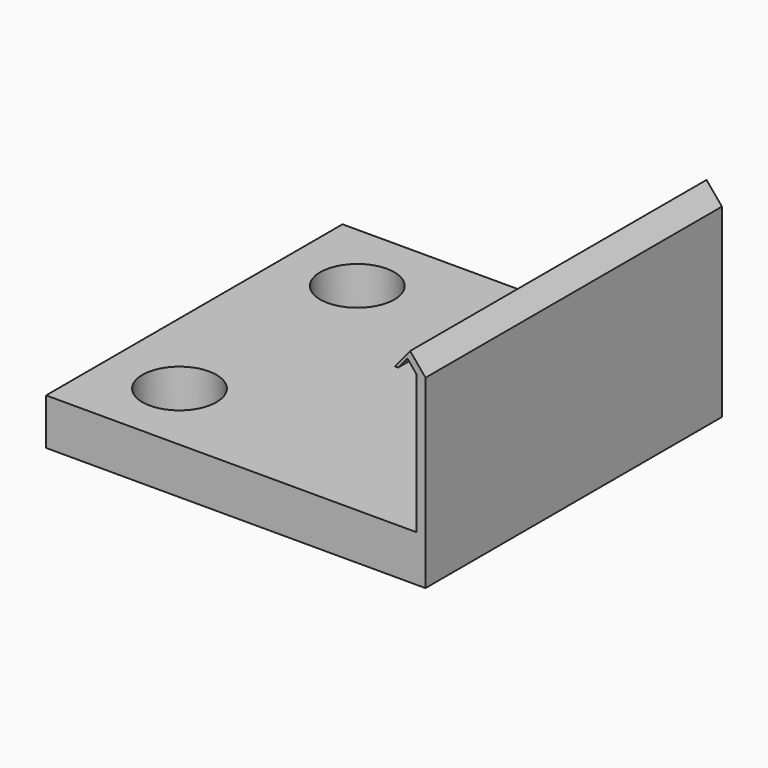
from build123d import *

# Parameters (mm, degrees)
F0_W     = 25.4
F0_H     = 3.175
F1_DEPTH = 12.7
F2_R     = 2.54
F3_DEPTH = 13.971


with BuildPart() as f1:
    # F0 (on Front) → F1 (new body, symmetric)
    with BuildSketch(Plane.XZ):
        Rectangle(F0_W, F0_H)
        Polygon((12.7, 1.5875), (12.7, -1.5875), (13.310071, -1.5875), (13.310071, 11.1125), (12.7, 11.1125), align=None)
        Polygon((12.068422, 11.8745), (12.7, 11.1125), (13.310071, 11.1125), (12.257441, 12.3825), (11.204811, 11.1125), (11.436844, 11.1125), align=None)
    extrude(amount=F1_DEPTH, both=True)

    # F2 (on face) → F3 (cut, through all)
    with BuildSketch(Plane(origin=(0, 0, -1.5875), x_dir=(1, 0, 0), z_dir=(0, 0, -1))):
        with Locations((-7.62, 7.62)):
            Circle(F2_R)
        with Locations((-7.62, -7.62)):
            Circle(F2_R)
    extrude(amount=-F3_DEPTH, mode=Mode.SUBTRACT)


solid = f1.part
